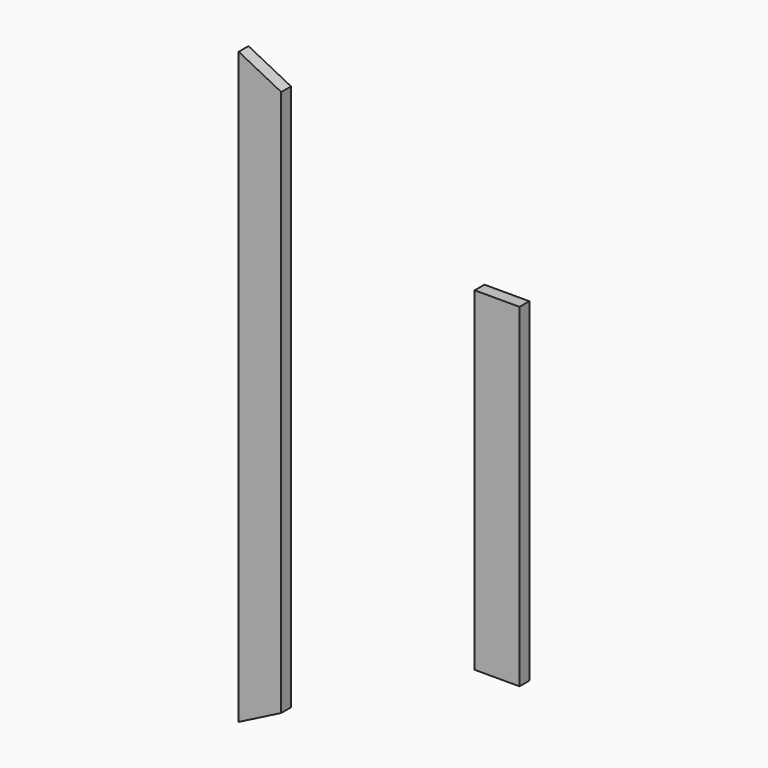
from build123d import *

# Parameters (mm, degrees)
F1_DEPTH = 38.1
F2_W     = 139.7
F2_H     = 1041.4
F3_DEPTH = 38.1


with BuildPart() as f1:
    # F0 (on Front) → F1 (new body)
    with BuildSketch(Plane.XZ):
        Polygon((-74.473373, -902.833856), (57.988678, -835.34107), (57.988678, 868.633358), (-74.473373, 936.126144), align=None)
    extrude(amount=F1_DEPTH)


with BuildPart() as f3:
    # F2 (on Front) → F3 (new body)
    with BuildSketch(Plane.XZ):
        with Locations((730.794672, 0)):
            Rectangle(F2_W, F2_H)
    extrude(amount=F3_DEPTH)


solid = Compound([f1.part, f3.part])
